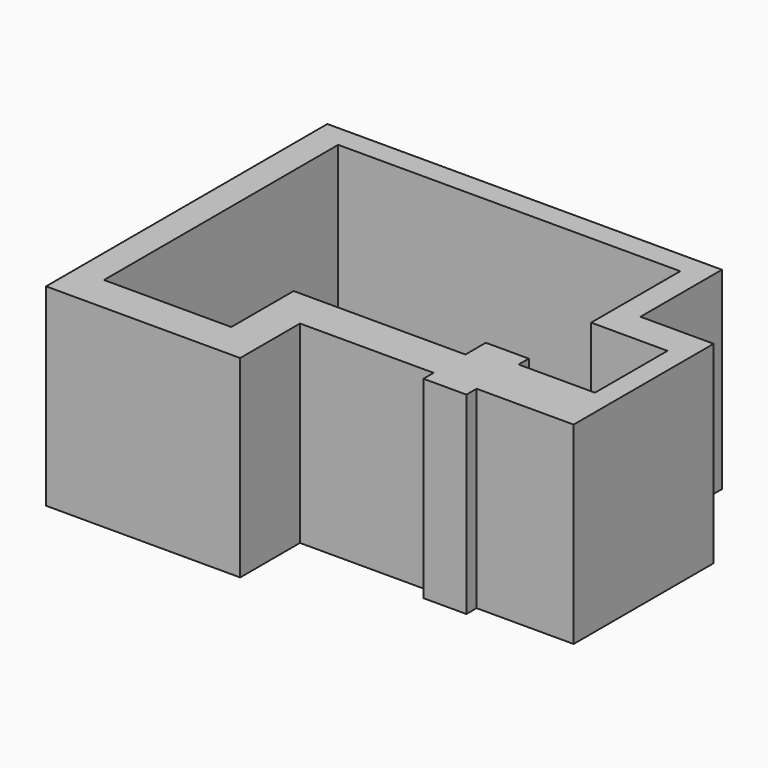
from build123d import *

# Parameters (mm, degrees)
F0_W     = 3.7651760504
F0_H     = 21.3359966874
F0_W_2   = 1.8825894222
F0_H_2   = 4.8110596836
F0_W_3   = 17.570823431
F0_H_3   = 5.2294135094
F0_W_4   = 2.5101192296
F1_DEPTH = 25.4


with BuildPart() as f1:
    # F0 (on Top) → F1 (new body)
    with BuildSketch(Plane.XY):
        Polygon((5.8569414541, 68.2961195707), (5.8569414541, 65.3676465154), (9.6221175045, 65.3676465154), (54.5950606465, 65.3676465154), (54.5950606465, 68.2961195707), align=None)
        with Locations((7.7395294793, 54.6996481717)):
            Rectangle(F0_W, F0_H)
        Polygon((9.6221175045, 44.031649828), (5.8569414541, 44.031649828), (5.8569414541, 22.0681186765), (9.6221175045, 22.0681186765), (9.6221175045, 26.8791783601), align=None)
        Polygon((54.5950606465, 68.2961195707), (54.5950606465, 65.3676465154), (54.5950606465, 54.9088269472), (57.7327050269, 54.9088269472), (57.7327050269, 68.2961195707), align=None)
        with Locations((10.5634122156, 24.4736485183)):
            Rectangle(F0_W_2, F0_H_2)
        Polygon((57.7327050269, 54.9088269472), (54.5950606465, 54.9088269472), (54.5950606465, 50.7252961397), (64.6355301142, 50.7252961397), (64.6355301142, 54.9088269472), align=None)
        Polygon((26.3562351465, 26.8791783601), (11.5047069266, 26.8791783601), (11.5047069266, 22.0681186765), (31.3764698803, 22.0681186765), (31.3764698803, 26.8791783601), align=None)
        Polygon((26.3562351465, 37.1288247406), (26.3562351465, 26.8791783601), (31.3764698803, 26.8791783601), (31.3764698803, 31.8994112313), (31.3764698803, 37.1288247406), align=None)
        Polygon((67.3548281193, 54.9088269472), (64.6355301142, 54.9088269472), (64.6355301142, 50.7252961397), (64.6355301142, 38.8022363186), (67.3548281193, 38.8022363186), align=None)
        Polygon((67.3548281193, 38.8022363186), (64.6355301142, 38.8022363186), (54.5950606465, 38.8022363186), (54.5950606465, 31.8994112313), (67.3548281193, 31.8994112313), align=None)
        with Locations((40.1618815958, 34.514117986)):
            Rectangle(F0_W_3, F0_H_3)
        Polygon((54.5950606465, 31.8994112313), (54.5950606465, 38.8022363186), (54.5950606465, 40.4756516218), (48.9472933114, 40.4756516218), (48.9472933114, 37.1288247406), (51.4574125409, 37.1288247406), (51.4574125409, 31.8994112313), (48.9472933114, 31.8994112313), (48.9472933114, 30.226001516), (54.5950606465, 30.226001516), align=None)
        with Locations((50.2023529261, 34.514117986)):
            Rectangle(F0_W_4, F0_H_3)
    extrude(amount=F1_DEPTH)


solid = f1.part
